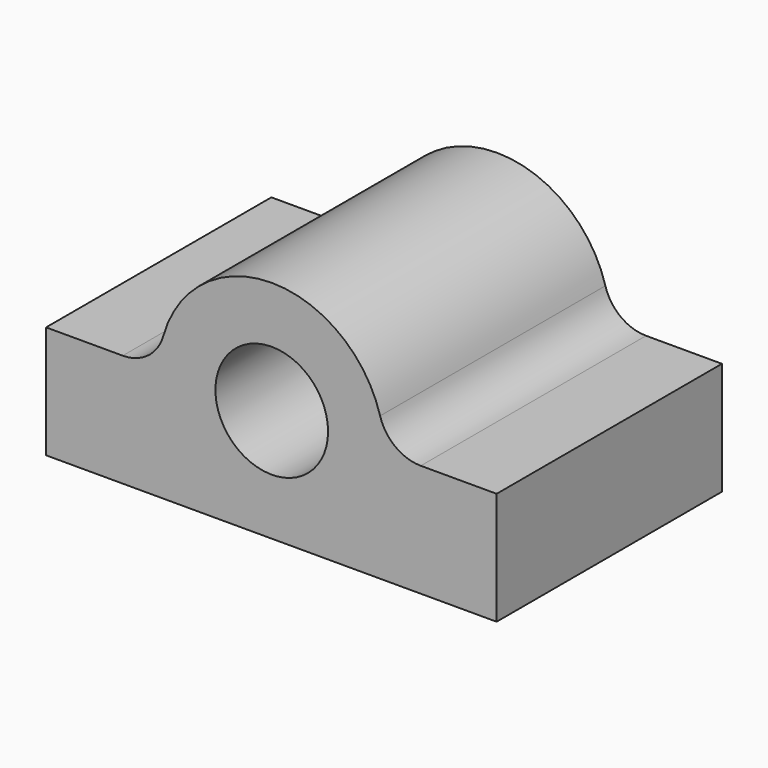
from build123d import *

# Parameters (mm, degrees)
F0_R     = 25.4
F1_DEPTH = 127
F2_R     = 6.35
F3_DEPTH = 31.75


with BuildPart() as f1:
    # F0 (on Front) → F1 (new body)
    with BuildSketch(Plane.XZ):
        with BuildLine():
            Line((101.426917, -50.8), (101.426917, 0))
            Line((101.426917, 0), (67.202083, 0))
            ThreePointArc((67.202083, 0), (55.714501, 3.853357), (48.874242, 13.854545))
            ThreePointArc((48.874242, 13.854545), (0, 50.8), (-48.874242, 13.854545))
            ThreePointArc((-48.874242, 13.854545), (-55.714501, 3.853357), (-67.202083, 0))
            Line((-67.202083, 0), (-101.773083, 0))
            Line((-101.773083, 0), (-101.773083, -50.8))
            Line((-101.773083, -50.8), (101.426917, -50.8))
        make_face()
        Circle(F0_R, mode=Mode.SUBTRACT)
    extrude(amount=F1_DEPTH)

    # F2 (on face) → F3 (cut)
    with BuildSketch(Plane(origin=(0, 0, -50.8), x_dir=(1, 0, 0), z_dir=(0, 0, -1))):
        with Locations((-76.373083, 101.6)):
            Circle(F2_R)
        with Locations((-76.373083, 25.4)):
            Circle(F2_R)
        with Locations((76.026917, 101.6)):
            Circle(F2_R)
        with Locations((76.026917, 25.4)):
            Circle(F2_R)
    extrude(amount=-F3_DEPTH, mode=Mode.SUBTRACT)


solid = f1.part
